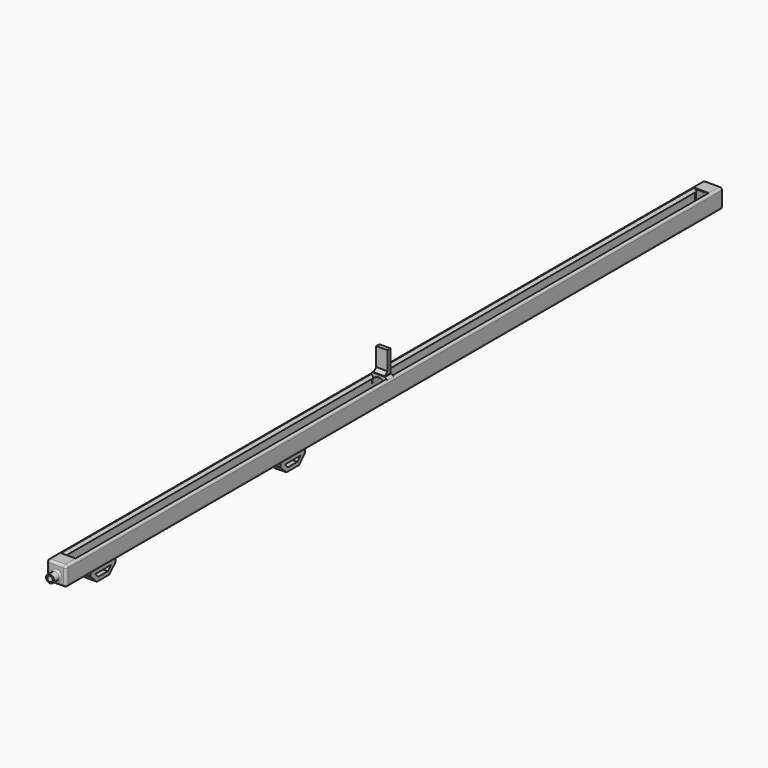
from build123d import *

# Parameters (mm, degrees)
PAD_DEPTH            = 10
CHAMFER_SIZE         = 3
SKETCH018_W          = 14.07752
SKETCH018_H          = 28.079826
PAD009_DEPTH         = 5
CHAMFER001_SIZE      = 4
PAD017_DEPTH         = 7.5
SKETCH026_R          = 2.2
POCKET004_DEPTH      = 0.001
POCKET004_DEPTH_BACK = 475.001
PAD008_DEPTH         = 501
SKETCH019_R          = 2.2
PAD010_DEPTH         = 495
SKETCH020_W          = 13.9
SKETCH020_H          = 18.2
PAD011_DEPTH         = 15
PAD012_DEPTH         = 4
SKETCH022_R          = 4.5
POCKET_DEPTH         = 15
FILLET_R             = 3
SKETCH023_R          = 5
PAD016_DEPTH         = 10
SKETCH024_R          = 3.5
POCKET003_DEPTH      = 17
FILLET001_R          = 2


with BuildPart() as stripplacer:
    # Sketch017 → Pad (new body)
    with BuildSketch(Plane.XZ):
        with BuildLine():
            ThreePointArc((6.682066, -3.2), (0, 0.3), (-6.682066, -3.2))
            Line((-6.682066, -3.2), (-8.05, -3.2))
            Line((-8.05, -3.2), (-8.05, -9.2))
            Line((-8.05, -9.2), (-11.05, -9.2))
            Line((-11.05, -9.2), (-11.05, 3.3))
            Line((-11.05, 3.3), (11.05, 3.3))
            Line((11.05, 3.3), (11.05, -9.2))
            Line((11.05, -9.2), (8.05, -9.2))
            Line((8.05, -9.2), (8.05, -3.2))
            Line((6.682066, -3.2), (8.05, -3.2))
        make_face()
    extrude(amount=PAD_DEPTH)

    # Chamfer
    chamfer_edges = [stripplacer.edges().sort_by_distance(p)[0] for p in [
        (11.05, -5, 3.3),
        (-11.05, -5, 3.3),
    ]]
    chamfer(chamfer_edges, length=CHAMFER_SIZE)

    # Sketch018 → Pad009 (join)
    with BuildSketch(Plane.XZ):
        with Locations((0, 16.761206)):
            Rectangle(SKETCH018_W, SKETCH018_H)
    extrude(amount=PAD009_DEPTH)

    # Chamfer001
    chamfer001_edges = [stripplacer.edges().sort_by_distance(p)[0] for p in [
        (0, -5, 3.3),
    ]]
    chamfer(chamfer001_edges, length=CHAMFER001_SIZE)


with BuildPart() as scratch:
    # Sketch025 → Pad017 (new body, symmetric)
    with BuildSketch(Plane.YZ):
        Polygon((-135.857864, -30.45), (-145.542163, -40.134299), (-165.315701, -40.134299), (-175, -30.45), (-175, -23.45), (-435.857864, -23.45), (-435.857864, -30.45), (-445.542163, -40.134299), (-465.315701, -40.134299), (-475, -30.45), (-475, -22.45), (-135.857864, -22.45), align=None)
        Polygon((-167.928932, -30.45), (-142.928932, -30.45), (-147.928932, -35.45), (-162.928932, -35.45), align=None, mode=Mode.SUBTRACT)
        Polygon((-442.928932, -30.45), (-467.928932, -30.45), (-462.928932, -35.45), (-447.928932, -35.45), align=None, mode=Mode.SUBTRACT)
    extrude(amount=PAD017_DEPTH, both=True)

    # Sketch026 → Pocket004 (cut, two sides)
    with BuildSketch(Plane.XZ) as pocket004_sk:
        with Locations((0, -26.65)):
            Circle(SKETCH026_R)
    extrude(amount=-POCKET004_DEPTH, mode=Mode.SUBTRACT)
    extrude(pocket004_sk.sketch, amount=POCKET004_DEPTH_BACK, mode=Mode.SUBTRACT)


with BuildPart() as obj1:
    # Sketch016 → Pad008 (new body)
    with BuildSketch(Plane.XZ):
        with BuildLine():
            ThreePointArc((-9.2, 0.95), (-11.32132, 0.07132), (-12.2, -2.05))
            Line((-12.2, -20.45), (-12.2, -2.05))
            ThreePointArc((-12.2, -20.45), (-11.32132, -22.57132), (-9.2, -23.45))
            Line((9.2, -23.45), (-9.2, -23.45))
            ThreePointArc((9.2, -23.45), (11.32132, -22.57132), (12.2, -20.45))
            Line((12.2, -2.05), (12.2, -20.45))
            ThreePointArc((12.2, -2.05), (11.32132, 0.07132), (9.2, 0.95))
            Line((6.11895, -2.292259), (9.2, 0.95))
            Line((6.916338, -3.05), (6.11895, -2.292259))
            Line((8.2, -3.05), (6.916338, -3.05))
            Line((8.2, -19.45), (8.2, -3.05))
            Line((-8.2, -19.45), (8.2, -19.45))
            Line((-8.2, -3.05), (-8.2, -19.45))
            Line((-8.2, -3.05), (-6.916338, -3.05))
            Line((-6.916338, -3.05), (-6.11895, -2.292259))
            Line((-9.2, 0.95), (-6.11895, -2.292259))
        make_face()
    extrude(amount=PAD008_DEPTH)

    # Sketch019 → Pad010 (join)
    with BuildSketch(Plane.XZ):
        with BuildLine():
            ThreePointArc((-3.15, -25.124385), (0, -30.15), (3.15, -25.124385))
            Line((3.15, -25.124385), (3.5, -23.45))
            Line((-3.5, -23.45), (3.5, -23.45))
            Line((-3.15, -25.124385), (-3.5, -23.45))
        make_face()
        with Locations((0, -26.65)):
            Circle(SKETCH019_R, mode=Mode.SUBTRACT)
    extrude(amount=PAD010_DEPTH)

    # Sketch020 → Pad011 (join)
    with BuildSketch(Plane.XZ.offset(501)):
        with BuildLine():
            ThreePointArc((-9.2, 0.95), (-11.32132, 0.07132), (-12.2, -2.05))
            Line((-12.2, -20.45), (-12.2, -2.05))
            ThreePointArc((-12.2, -20.45), (-11.32132, -22.57132), (-9.2, -23.45))
            Line((9.2, -23.45), (-9.2, -23.45))
            ThreePointArc((9.2, -23.45), (11.32132, -22.57132), (12.2, -20.45))
            Line((12.2, -2.05), (12.2, -20.45))
            ThreePointArc((12.2, -2.05), (11.32132, 0.07132), (9.2, 0.95))
            Line((-9.2, 0.95), (9.2, 0.95))
        make_face()
        with Locations((0, -9.1)):
            Rectangle(SKETCH020_W, SKETCH020_H, mode=Mode.SUBTRACT)
    extrude(amount=PAD011_DEPTH)

    # Sketch021 → Pad012 (join)
    with BuildSketch(Plane.XZ.offset(516)):
        with BuildLine():
            ThreePointArc((-9.2, 0.95), (-11.32132, 0.07132), (-12.2, -2.05))
            Line((-12.2, -20.45), (-12.2, -2.05))
            ThreePointArc((-12.2, -20.45), (-11.32132, -22.57132), (-9.2, -23.45))
            Line((9.2, -23.45), (-9.2, -23.45))
            ThreePointArc((9.2, -23.45), (11.32132, -22.57132), (12.2, -20.45))
            Line((12.2, -2.05), (12.2, -20.45))
            ThreePointArc((12.2, -2.05), (11.32132, 0.07132), (9.2, 0.95))
            Line((-9.2, 0.95), (9.2, 0.95))
        make_face()
    extrude(amount=PAD012_DEPTH)

    # Sketch022 → Pocket (cut)
    with BuildSketch(Plane.XZ.offset(495)):
        with Locations((0, -26.65)):
            Circle(SKETCH022_R)
    extrude(amount=POCKET_DEPTH, mode=Mode.SUBTRACT)

    # Fillet
    fillet_edges = [obj1.edges().sort_by_distance(p)[0] for p in [
        (-6.95, -516, -9.1),
        (0, -516, -18.2),
        (6.95, -516, -9.1),
        (0, -516, 0),
        (-11.32132, -520, 0.07132),
        (-12.2, -520, -11.25),
        (-11.32132, -520, -22.57132),
        (0, -520, -23.45),
        (11.32132, -520, -22.57132),
        (12.2, -520, -11.25),
        (11.32132, -520, 0.07132),
        (0, -520, 0.95),
    ]]
    fillet(fillet_edges, radius=FILLET_R)


with BuildPart() as obj2:
    # Part__Mirroring: instance of obj1
    add(obj1.part.mirror(Plane(origin=(0, 0, 0), x_dir=(1, 0, 0), z_dir=(0, 1, 0))))


with BuildPart() as body:
    # Fusion base: copy of obj1
    add(obj1.part)

    # Fusion: union obj2
    add(obj2.part)

    # Sketch023 → Pad016 (new body)
    with BuildSketch(Plane.XZ.offset(520)):
        with Locations((0, -13)):
            Circle(SKETCH023_R)
    extrude(amount=PAD016_DEPTH)

    # Sketch024 → Pocket003 (cut)
    with BuildSketch(Plane.XZ.offset(530)):
        with Locations((0, -13)):
            Circle(SKETCH024_R)
    extrude(amount=-POCKET003_DEPTH, mode=Mode.SUBTRACT)

    # Fillet001
    fillet001_edges = [body.edges().sort_by_distance(p)[0] for p in [
        (-5, -520, -13),
    ]]
    fillet(fillet001_edges, radius=FILLET001_R)

    # Fusion001: union Scratch
    add(scratch.part)


solid = Compound([stripplacer.part, body.part])
